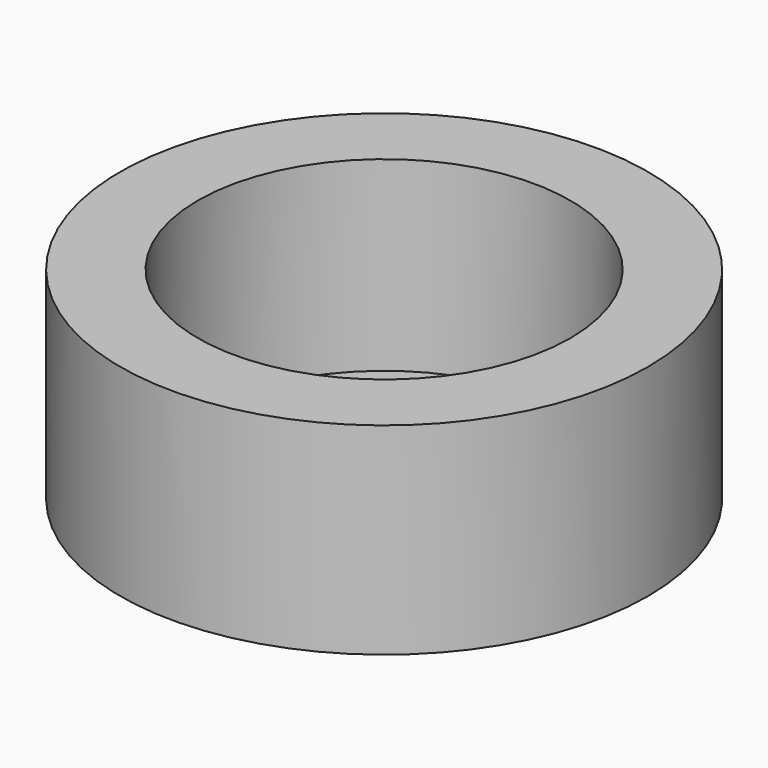
from build123d import *

# Parameters (mm, degrees)
F0_R          = 85
F0_R_2        = 60
F1_DEPTH      = 65
F0_R_3        = 40
F2_DEPTH      = 5
F3_DEPTH      = 5
F3_DEPTH_BACK = 15
F4_R          = 5


with BuildPart() as f1:
    # F0 (on Top) → F1 (new body)
    with BuildSketch(Plane.XY):
        Circle(F0_R)
        Circle(F0_R_2, mode=Mode.SUBTRACT)
    extrude(amount=F1_DEPTH)

    # F0 (on Top) → F2 (join)
    with BuildSketch(Plane.XY):
        Circle(F0_R_2)
        Circle(F0_R_3, mode=Mode.SUBTRACT)
    extrude(amount=F2_DEPTH)

    # F0 (on Top) → F3 (join, two sides)
    with BuildSketch(Plane.XY) as f3_sk:
        Circle(F0_R_3)
    extrude(amount=F3_DEPTH)
    extrude(f3_sk.sketch, amount=-F3_DEPTH_BACK)

    # F4
    f4_edges = [f1.edges().sort_by_distance(p)[0] for p in [
        (-40, 0, -15),
    ]]
    fillet(f4_edges, radius=F4_R)


solid = f1.part
